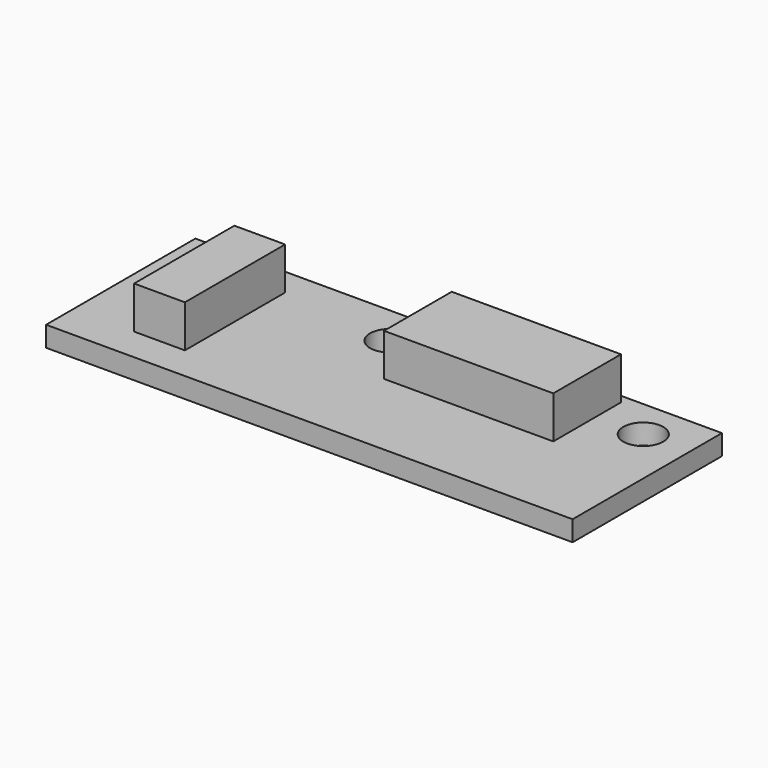
from build123d import *

# Parameters (mm, degrees)
F0_W     = 39.5
F0_H     = 14
F0_R     = 1.5
F1_DEPTH = 1.524
F2_W     = 3.81
F2_H     = 9.398
F2_W_2   = 12.7
F2_H_2   = 6.35
F3_DEPTH = 3.175


with BuildPart() as f1:
    # F0 (on Top) → F1 (new body)
    with BuildSketch(Plane.XY):
        Rectangle(F0_W, F0_H)
        with Locations((-2.75, 4)):
            Circle(F0_R, mode=Mode.SUBTRACT)
        with Locations((16.25, 4)):
            Circle(F0_R, mode=Mode.SUBTRACT)
    extrude(amount=F1_DEPTH)

    # F2 (on face) → F3 (join)
    with BuildSketch(Plane.XY.offset(1.524)):
        with Locations((-13.273, 0.239)):
            Rectangle(F2_W, F2_H)
        with Locations((6.35, 3.175)):
            Rectangle(F2_W_2, F2_H_2)
    extrude(amount=F3_DEPTH)


solid = f1.part
